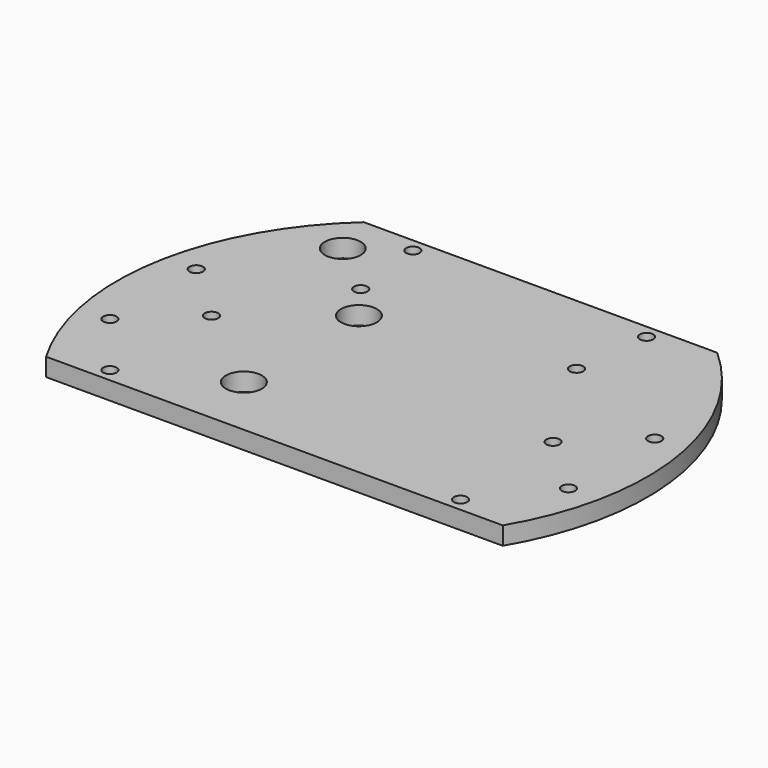
from build123d import *

# Parameters (mm, degrees)
CYLINDER1528_R     = 1.5
CYLINDER1528_DEPTH = 100
CYLINDER1527_R     = 1.5
CYLINDER1527_DEPTH = 100
CYLINDER1526_R     = 1.5
CYLINDER1526_DEPTH = 32
CYLINDER1525_R     = 1.5
CYLINDER1525_DEPTH = 32
BOX520_W           = 200
BOX520_H           = 100
BOX520_DEPTH       = 100
BOX519_W           = 200
BOX519_H           = 100
BOX519_DEPTH       = 100
CYLINDER1518_R     = 4
CYLINDER1518_DEPTH = 100
CYLINDER1519_R     = 4
CYLINDER1519_DEPTH = 100
CYLINDER1520_R     = 4
CYLINDER1520_DEPTH = 100
CYLINDER1521_R     = 4
CYLINDER1521_DEPTH = 100
CYLINDER1522_R     = 4
CYLINDER1522_DEPTH = 100
CYLINDER1523_R     = 4
CYLINDER1523_DEPTH = 100
CYLINDER1524_R     = 4
CYLINDER1524_DEPTH = 100
CYLINDER1517_R     = 4
CYLINDER1517_DEPTH = 100
CYLINDER1510_R     = 1.5
CYLINDER1510_DEPTH = 100
CYLINDER1511_R     = 1.5
CYLINDER1511_DEPTH = 100
CYLINDER1512_R     = 1.5
CYLINDER1512_DEPTH = 100
CYLINDER1513_R     = 1.5
CYLINDER1513_DEPTH = 100
CYLINDER1514_R     = 1.5
CYLINDER1514_DEPTH = 100
CYLINDER1515_R     = 1.5
CYLINDER1515_DEPTH = 100
CYLINDER1516_R     = 1.5
CYLINDER1516_DEPTH = 100
CYLINDER1509_R     = 1.5
CYLINDER1509_DEPTH = 100
CYLINDER1508_R     = 59
CYLINDER1508_DEPTH = 4


with BuildPart() as obj1:
    # Cylinder1528 → Cylinder1528 (new body)
    with BuildSketch(Plane(origin=(14, 0, -60), x_dir=(1, 0, 0), z_dir=(0, 0, 1))):
        Circle(CYLINDER1528_R)
    extrude(amount=CYLINDER1528_DEPTH)


with BuildPart() as obj2:
    # Cylinder1527 → Cylinder1527 (new body)
    with BuildSketch(Plane(origin=(90, 0, -60), x_dir=(1, 0, 0), z_dir=(0, 0, 1))):
        Circle(CYLINDER1527_R)
    extrude(amount=CYLINDER1527_DEPTH)

    # Compound900: union obj1
    add(obj1.part)


with BuildPart() as obj3:
    # Cylinder1526 → Cylinder1526 (new body)
    with BuildSketch(Plane(origin=(78, 41, -42), x_dir=(1, 0, 0), z_dir=(0, 0, 1))):
        Circle(CYLINDER1526_R)
    extrude(amount=CYLINDER1526_DEPTH)


with BuildPart() as compound899:
    # Cylinder1525 → Cylinder1525 (new body)
    with BuildSketch(Plane(origin=(26, 41, -42), x_dir=(1, 0, 0), z_dir=(0, 0, 1))):
        Circle(CYLINDER1525_R)
    extrude(amount=CYLINDER1525_DEPTH)

    # Compound899: union obj3
    add(obj3.part)


with BuildPart() as krychle520:
    # Box520 → Box520 (new body)
    with BuildSketch(Plane(origin=(-60, 44, -90), x_dir=(1, 0, 0), z_dir=(0, 0, 1))):
        with Locations((100, 50)):
            Rectangle(BOX520_W, BOX520_H)
    extrude(amount=BOX520_DEPTH)


with BuildPart() as krychle519:
    # Box519 → Box519 (new body)
    with BuildSketch(Plane(origin=(-60, -130, -90), x_dir=(1, 0, 0), z_dir=(0, 0, 1))):
        with Locations((100, 50)):
            Rectangle(BOX519_W, BOX519_H)
    extrude(amount=BOX519_DEPTH)


with BuildPart() as obj4:
    # Cylinder1518 → Cylinder1518 (new body)
    with BuildSketch(Plane(origin=(-16, 34, -90), x_dir=(1, 0, 0), z_dir=(0, 0, 1))):
        Circle(CYLINDER1518_R)
    extrude(amount=CYLINDER1518_DEPTH)


with BuildPart() as obj5:
    # Cylinder1519 → Cylinder1519 (new body)
    with BuildSketch(Plane(origin=(-16, -34, -90), x_dir=(1, 0, 0), z_dir=(0, 0, 1))):
        Circle(CYLINDER1519_R)
    extrude(amount=CYLINDER1519_DEPTH)


with BuildPart() as obj6:
    # Cylinder1520 → Cylinder1520 (new body)
    with BuildSketch(Plane(origin=(34, -16, -90), x_dir=(1, 0, 0), z_dir=(0, 0, 1))):
        Circle(CYLINDER1520_R)
    extrude(amount=CYLINDER1520_DEPTH)


with BuildPart() as obj7:
    # Cylinder1521 → Cylinder1521 (new body)
    with BuildSketch(Plane(origin=(16, 34, -90), x_dir=(1, 0, 0), z_dir=(0, 0, 1))):
        Circle(CYLINDER1521_R)
    extrude(amount=CYLINDER1521_DEPTH)


with BuildPart() as obj8:
    # Cylinder1522 → Cylinder1522 (new body)
    with BuildSketch(Plane(origin=(16, -34, -90), x_dir=(1, 0, 0), z_dir=(0, 0, 1))):
        Circle(CYLINDER1522_R)
    extrude(amount=CYLINDER1522_DEPTH)


with BuildPart() as obj9:
    # Cylinder1523 → Cylinder1523 (new body)
    with BuildSketch(Plane(origin=(-34, 16, -90), x_dir=(1, 0, 0), z_dir=(0, 0, 1))):
        Circle(CYLINDER1523_R)
    extrude(amount=CYLINDER1523_DEPTH)


with BuildPart() as obj10:
    # Cylinder1524 → Cylinder1524 (new body)
    with BuildSketch(Plane(origin=(34, 16, -90), x_dir=(1, 0, 0), z_dir=(0, 0, 1))):
        Circle(CYLINDER1524_R)
    extrude(amount=CYLINDER1524_DEPTH)


with BuildPart() as obj11:
    # Cylinder1517 → Cylinder1517 (new body)
    with BuildSketch(Plane(origin=(-34, -16, -90), x_dir=(1, 0, 0), z_dir=(0, 0, 1))):
        Circle(CYLINDER1517_R)
    extrude(amount=CYLINDER1517_DEPTH)

    # Compound898: union obj4, obj5, obj6, obj7, obj8, obj9, obj10
    add(obj4.part)
    add(obj5.part)
    add(obj6.part)
    add(obj7.part)
    add(obj8.part)
    add(obj9.part)
    add(obj10.part)


with BuildPart() as obj12:
    # Cylinder1510 → Cylinder1510 (new body)
    with BuildSketch(Plane(origin=(103, 12, -60), x_dir=(1, 0, 0), z_dir=(0, 0, 1))):
        Circle(CYLINDER1510_R)
    extrude(amount=CYLINDER1510_DEPTH)


with BuildPart() as obj13:
    # Cylinder1511 → Cylinder1511 (new body)
    with BuildSketch(Plane(origin=(76, 24, -60), x_dir=(1, 0, 0), z_dir=(0, 0, 1))):
        Circle(CYLINDER1511_R)
    extrude(amount=CYLINDER1511_DEPTH)


with BuildPart() as obj14:
    # Cylinder1512 → Cylinder1512 (new body)
    with BuildSketch(Plane(origin=(91, -27, -60), x_dir=(1, 0, 0), z_dir=(0, 0, 1))):
        Circle(CYLINDER1512_R)
    extrude(amount=CYLINDER1512_DEPTH)


with BuildPart() as obj15:
    # Cylinder1513 → Cylinder1513 (new body)
    with BuildSketch(Plane(origin=(13, -27, -60), x_dir=(1, 0, 0), z_dir=(0, 0, 1))):
        Circle(CYLINDER1513_R)
    extrude(amount=CYLINDER1513_DEPTH)


with BuildPart() as obj16:
    # Cylinder1514 → Cylinder1514 (new body)
    with BuildSketch(Plane(origin=(28, 24, -60), x_dir=(1, 0, 0), z_dir=(0, 0, 1))):
        Circle(CYLINDER1514_R)
    extrude(amount=CYLINDER1514_DEPTH)


with BuildPart() as obj17:
    # Cylinder1515 → Cylinder1515 (new body)
    with BuildSketch(Plane(origin=(1, -12, -60), x_dir=(1, 0, 0), z_dir=(0, 0, 1))):
        Circle(CYLINDER1515_R)
    extrude(amount=CYLINDER1515_DEPTH)


with BuildPart() as obj18:
    # Cylinder1516 → Cylinder1516 (new body)
    with BuildSketch(Plane(origin=(1, 12, -60), x_dir=(1, 0, 0), z_dir=(0, 0, 1))):
        Circle(CYLINDER1516_R)
    extrude(amount=CYLINDER1516_DEPTH)


with BuildPart() as obj19:
    # Cylinder1509 → Cylinder1509 (new body)
    with BuildSketch(Plane(origin=(103, -12, -60), x_dir=(1, 0, 0), z_dir=(0, 0, 1))):
        Circle(CYLINDER1509_R)
    extrude(amount=CYLINDER1509_DEPTH)

    # Compound897: union obj12, obj13, obj14, obj15, obj16, obj17, obj18
    add(obj12.part)
    add(obj13.part)
    add(obj14.part)
    add(obj15.part)
    add(obj16.part)
    add(obj17.part)
    add(obj18.part)


with BuildPart() as cut510:
    # Cylinder1508 → Cylinder1508 (new body)
    with BuildSketch(Plane(origin=(52, 0, -26), x_dir=(1, 0, 0), z_dir=(0, 0, 1))):
        Circle(CYLINDER1508_R)
    extrude(amount=CYLINDER1508_DEPTH)

    # Cut505: cut obj19
    add(obj19.part, mode=Mode.SUBTRACT)

    # Cut506: cut obj11
    add(obj11.part, mode=Mode.SUBTRACT)

    # Cut507: cut Krychle519
    add(krychle519.part, mode=Mode.SUBTRACT)

    # Cut508: cut Krychle520
    add(krychle520.part, mode=Mode.SUBTRACT)

    # Cut509: cut Compound899
    add(compound899.part, mode=Mode.SUBTRACT)

    # Cut510: cut obj2
    add(obj2.part, mode=Mode.SUBTRACT)


solid = cut510.part
